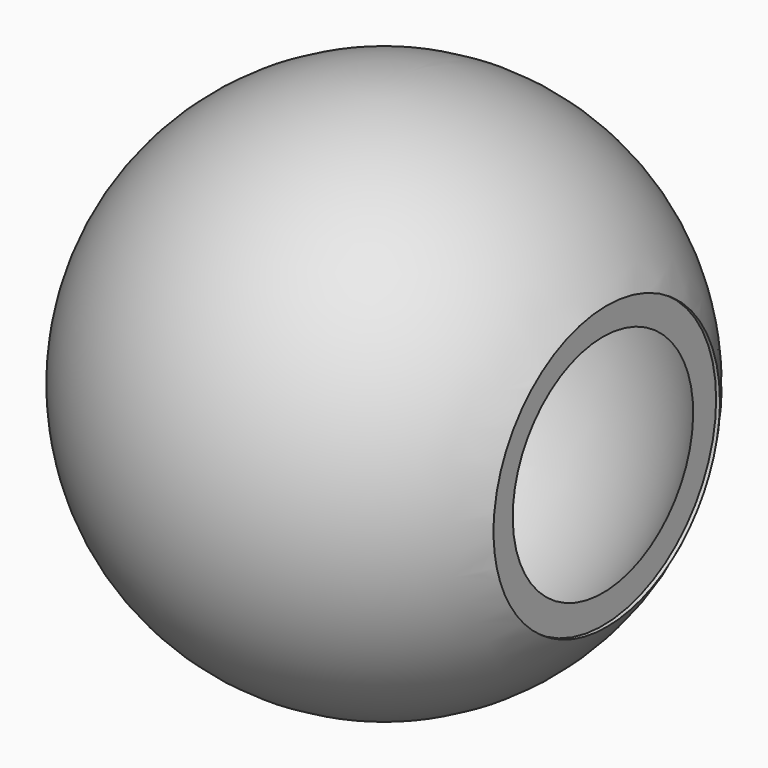
from build123d import *

# Parameters (mm, degrees)
F4_T     = -1
F3_R     = 8.042846649
F5_DEPTH = 25.4


with BuildPart() as f1:
    # F0 (on Right) → F1 (revolve)
    with BuildSketch(Plane.YZ):
        with BuildLine():
            ThreePointArc((0, -15), (10.6066017178, -10.6066017178), (15, 0))
            ThreePointArc((15, 0), (10.6066017178, 10.6066017178), (0, 15))
            Line((0, 15), (0, -15))
        make_face()
    revolve(axis=Axis((0, 0, 0), (0, 0, -1)))

    # F4 (hollow: no face is removed)
    offset(amount=F4_T, mode=Mode.SUBTRACT)

    # F3 (on offset) → F5 (cut)
    with BuildSketch(Plane.YZ.offset(12.446)):
        Circle(F3_R)
    extrude(amount=F5_DEPTH, mode=Mode.SUBTRACT)


solid = f1.part
